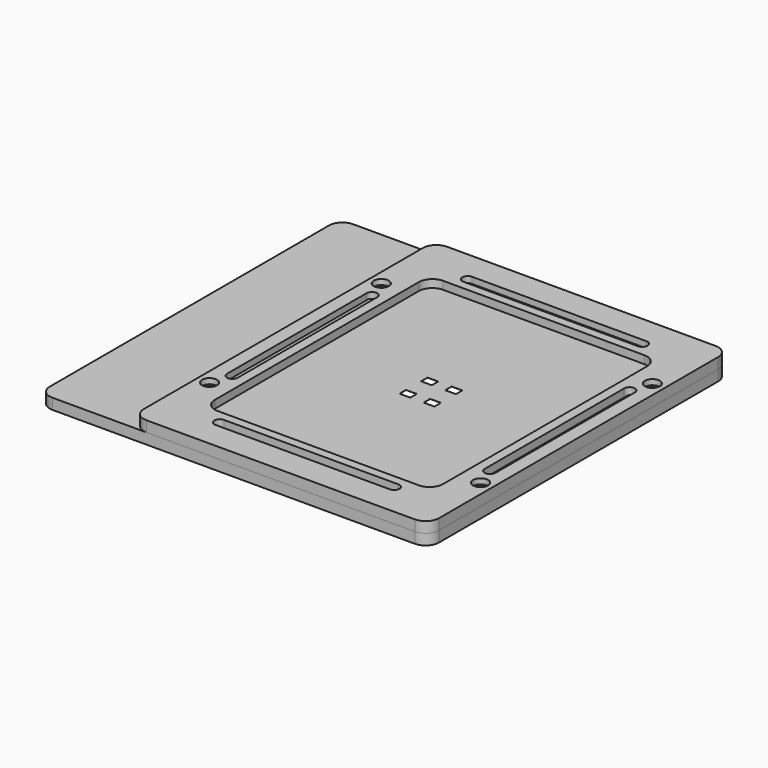
from build123d import *

# Parameters (mm, degrees)
SKETCH_W         = 4
SKETCH_H         = 3
EXTRUDE_DEPTH    = 0.05
EXTRUDE005_DEPTH = 2
SKETCH001_R      = 1.45
EXTRUDE001_DEPTH = 4
SKETCH004_R      = 2.8
EXTRUDE004_DEPTH = 3
SKETCH003_R      = 1.8
EXTRUDE003_DEPTH = 4


with BuildPart() as extrude_body:
    # Sketch → Extrude (new body)
    with BuildSketch(Plane.XY):
        with BuildLine():
            Line((-41.8, 56.4), (41.8, 56.4))
            ThreePointArc((46.8, 51.4), (45.335534, 54.935534), (41.8, 56.4))
            Line((46.8, 51.4), (46.8, -51.4))
            ThreePointArc((41.8, -56.4), (45.335534, -54.935534), (46.8, -51.4))
            Line((41.8, -56.4), (-41.8, -56.4))
            ThreePointArc((-46.8, -51.4), (-45.335534, -54.935534), (-41.8, -56.4))
            Line((-46.8, -51.4), (-46.8, 51.4))
            ThreePointArc((-41.8, 56.4), (-45.335534, 54.935534), (-46.8, 51.4))
        make_face()
        with Locations((-4.5, 5)):
            Rectangle(SKETCH_W, SKETCH_H, mode=Mode.SUBTRACT)
        with Locations((4.5, 5)):
            Rectangle(SKETCH_W, SKETCH_H, mode=Mode.SUBTRACT)
        with Locations((-4.5, -5)):
            Rectangle(SKETCH_W, SKETCH_H, mode=Mode.SUBTRACT)
        with Locations((4.5, -5)):
            Rectangle(SKETCH_W, SKETCH_H, mode=Mode.SUBTRACT)
    extrude(amount=EXTRUDE_DEPTH)


with BuildPart() as extrude_body_1:
    # Extrude placement: moved
    add(extrude_body.part.moved(Location((0, 0, 5))))


with BuildPart() as extrude005:
    # Sketch002 → Extrude005 (new body)
    with BuildSketch(Plane.XY):
        with BuildLine():
            Line((47.125, 32.5), (47.125, -32.5))
            ThreePointArc((47.125, -32.5), (48.375, -33.75), (49.625, -32.5))
            Line((49.625, -32.5), (49.625, 32.5))
            ThreePointArc((49.625, 32.5), (48.375, 33.75), (47.125, 32.5))
        make_face()
        with BuildLine():
            Line((-47.125, 32.5), (-47.125, -32.5))
            ThreePointArc((-49.625, -32.5), (-48.375, -33.75), (-47.125, -32.5))
            Line((-49.625, -32.5), (-49.625, 32.5))
            ThreePointArc((-47.125, 32.5), (-48.375, 33.75), (-49.625, 32.5))
        make_face()
        with BuildLine():
            Line((-32.5, 59.25), (32.5, 59.25))
            ThreePointArc((32.5, 56.75), (33.75, 58), (32.5, 59.25))
            Line((32.5, 56.75), (-32.5, 56.75))
            ThreePointArc((-32.5, 59.25), (-33.75, 58), (-32.5, 56.75))
        make_face()
        with BuildLine():
            Line((-32.5, -56.75), (32.5, -56.75))
            ThreePointArc((32.5, -59.25), (33.75, -58), (32.5, -56.75))
            Line((32.5, -59.25), (-32.5, -59.25))
            ThreePointArc((-32.5, -56.75), (-33.75, -58), (-32.5, -59.25))
        make_face()
    extrude(amount=EXTRUDE005_DEPTH)


with BuildPart() as extrude005_1:
    # Extrude005 placement: moved
    add(extrude005.part.moved(Location((0, 0, 4))))


with BuildPart() as fusion:
    # Sketch001 → Extrude001 (new body)
    with BuildSketch(Plane.XY):
        with BuildLine():
            Line((-85, 70), (50, 70))
            ThreePointArc((55, 65), (53.535534, 68.535534), (50, 70))
            Line((55, 65), (55, -65))
            ThreePointArc((50, -70), (53.535534, -68.535534), (55, -65))
            Line((50, -70), (-85, -70))
            ThreePointArc((-90, -65), (-88.535534, -68.535534), (-85, -70))
            Line((-90, -65), (-90, 65))
            ThreePointArc((-85, 70), (-88.535534, 68.535534), (-90, 65))
        make_face()
        with Locations((-50.5, 40)):
            Circle(SKETCH001_R, mode=Mode.SUBTRACT)
        with Locations((50.5, -40)):
            Circle(SKETCH001_R, mode=Mode.SUBTRACT)
        with Locations((-50.5, -40)):
            Circle(SKETCH001_R, mode=Mode.SUBTRACT)
        with Locations((50.5, 40)):
            Circle(SKETCH001_R, mode=Mode.SUBTRACT)
        with BuildLine():
            Line((-37.5, 52.5), (37.5, 52.5))
            ThreePointArc((42.5, 47.5), (41.035534, 51.035534), (37.5, 52.5))
            Line((42.5, 47.5), (42.5, -47.5))
            ThreePointArc((37.5, -52.5), (41.035534, -51.035534), (42.5, -47.5))
            Line((37.5, -52.5), (-37.5, -52.5))
            ThreePointArc((-42.5, -47.5), (-41.035534, -51.035534), (-37.5, -52.5))
            Line((-42.5, -47.5), (-42.5, 47.5))
            ThreePointArc((-37.5, 52.5), (-41.035534, 51.035534), (-42.5, 47.5))
        make_face(mode=Mode.SUBTRACT)
    extrude(amount=EXTRUDE001_DEPTH)

    # Fusion: union Extrude005
    add(extrude005_1.part)


with BuildPart() as extrude004:
    # Sketch004 → Extrude004 (new body)
    with BuildSketch(Plane.XY):
        with Locations((-50.5, 40)):
            Circle(SKETCH004_R)
        with Locations((50.5, -40)):
            Circle(SKETCH004_R)
        with Locations((-50.5, -40)):
            Circle(SKETCH004_R)
        with Locations((50.5, 40)):
            Circle(SKETCH004_R)
    extrude(amount=EXTRUDE004_DEPTH)


with BuildPart() as extrude004_1:
    # Extrude004 placement: moved
    add(extrude004.part.moved(Location((0, 0, 6))))


with BuildPart() as cut:
    # Sketch003 → Extrude003 (new body)
    with BuildSketch(Plane.XY):
        with BuildLine():
            Line((-50, 70), (50, 70))
            ThreePointArc((55, 65), (53.535534, 68.535534), (50, 70))
            Line((55, 65), (55, -65))
            ThreePointArc((50, -70), (53.535534, -68.535534), (55, -65))
            Line((50, -70), (-50, -70))
            ThreePointArc((-55, -65), (-53.535534, -68.535534), (-50, -70))
            Line((-55, -65), (-55, 65))
            ThreePointArc((-50, 70), (-53.535534, 68.535534), (-55, 65))
        make_face()
        with Locations((-50.5, 40)):
            Circle(SKETCH003_R, mode=Mode.SUBTRACT)
        with Locations((50.5, -40)):
            Circle(SKETCH003_R, mode=Mode.SUBTRACT)
        with Locations((-50.5, -40)):
            Circle(SKETCH003_R, mode=Mode.SUBTRACT)
        with Locations((50.5, 40)):
            Circle(SKETCH003_R, mode=Mode.SUBTRACT)
        with BuildLine():
            Line((-37.5, 52.5), (37.5, 52.5))
            ThreePointArc((42.5, 47.5), (41.035534, 51.035534), (37.5, 52.5))
            Line((42.5, 47.5), (42.5, -47.5))
            ThreePointArc((37.5, -52.5), (41.035534, -51.035534), (42.5, -47.5))
            Line((37.5, -52.5), (-37.5, -52.5))
            ThreePointArc((-42.5, -47.5), (-41.035534, -51.035534), (-37.5, -52.5))
            Line((-42.5, -47.5), (-42.5, 47.5))
            ThreePointArc((-37.5, 52.5), (-41.035534, 51.035534), (-42.5, 47.5))
        make_face(mode=Mode.SUBTRACT)
        with BuildLine():
            ThreePointArc((-46, 32.5), (-48, 34.5), (-50, 32.5))
            Line((-50, 32.5), (-50, -32.5))
            ThreePointArc((-50, -32.5), (-48, -34.5), (-46, -32.5))
            Line((-46, 32.5), (-46, -32.5))
        make_face(mode=Mode.SUBTRACT)
        with BuildLine():
            ThreePointArc((-32.5, -55.75), (-34.5, -57.75), (-32.5, -59.75))
            Line((-32.5, -59.75), (32.5, -59.75))
            ThreePointArc((32.5, -59.75), (34.5, -57.75), (32.5, -55.75))
            Line((-32.5, -55.75), (32.5, -55.75))
        make_face(mode=Mode.SUBTRACT)
        with BuildLine():
            ThreePointArc((50, 32.5), (48, 34.5), (46, 32.5))
            Line((46, 32.5), (46, -32.5))
            ThreePointArc((46, -32.5), (48, -34.5), (50, -32.5))
            Line((50, 32.5), (50, -32.5))
        make_face(mode=Mode.SUBTRACT)
        with BuildLine():
            ThreePointArc((-32.5, 59.75), (-34.5, 57.75), (-32.5, 55.75))
            Line((-32.5, 55.75), (32.5, 55.75))
            ThreePointArc((32.5, 55.75), (34.5, 57.75), (32.5, 59.75))
            Line((-32.5, 59.75), (32.5, 59.75))
        make_face(mode=Mode.SUBTRACT)
    extrude(amount=EXTRUDE003_DEPTH)


with BuildPart() as cut_1:
    # Extrude003 placement: moved
    add(cut.part.moved(Location((0, 0, 4))))

    # Cut: cut Extrude004
    add(extrude004_1.part, mode=Mode.SUBTRACT)


solid = Compound([extrude_body_1.part, fusion.part, cut_1.part])
